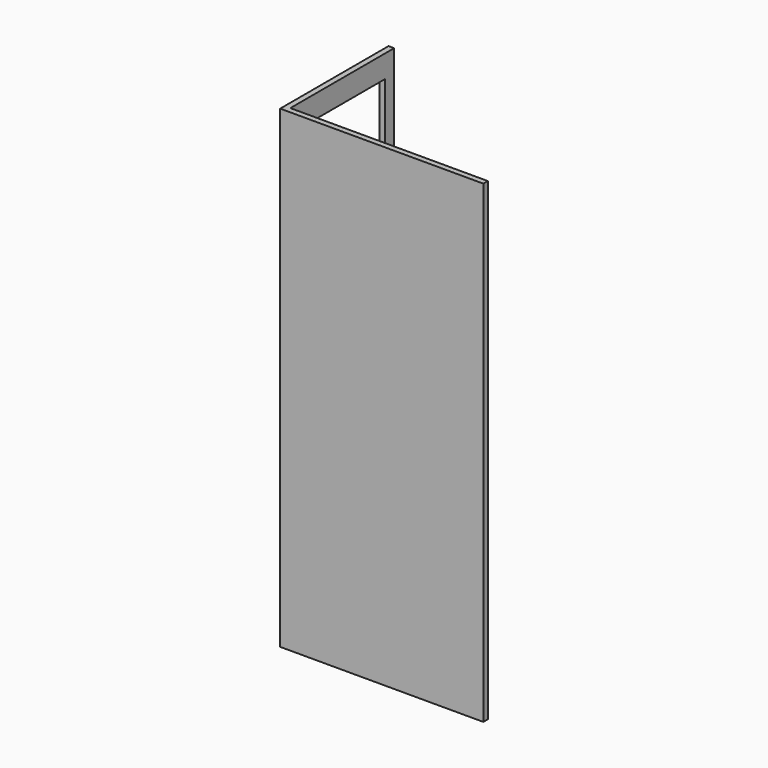
from build123d import *

# Parameters (mm, degrees)
F1_DEPTH = 2133.6
F2_W     = 508
F2_H     = 1727.2
F3_DEPTH = 914.401


with BuildPart() as f1:
    # F0 (on Top) → F1 (new body)
    with BuildSketch(Plane.XY):
        Polygon((0, 609.6), (0, 0), (914.4, 0), (914.4, 25.4), (25.4, 25.4), (25.4, 609.6), align=None)
    extrude(amount=F1_DEPTH)

    # F2 (on face) → F3 (cut, through all)
    with BuildSketch(Plane(origin=(0, 0, 0), x_dir=(0, -1, 0), z_dir=(-1, 0, 0))):
        with Locations((-304.8, 1168.4)):
            Rectangle(F2_W, F2_H)
    extrude(amount=-F3_DEPTH, mode=Mode.SUBTRACT)


solid = f1.part
